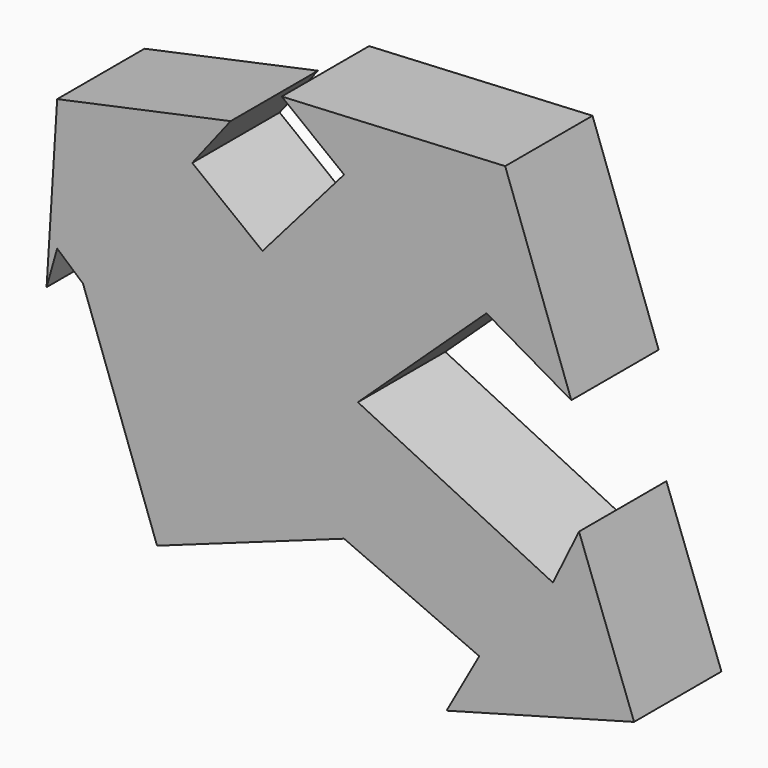
from build123d import *

# Parameters (mm, degrees)
F1_DEPTH = 25.4


with BuildPart() as f1:
    # F0 (on Front) → F1 (new body)
    with BuildSketch(Plane.XZ):
        Polygon((-22.192558, 23.749927), (0, 0), (29.912299, 27.950841), (49.64124, 16.54708), (34.25918, 59.484117), (-17.715111, 56.844085), (-3.21496, 45.55314), align=None)
        Polygon((-51.003944, -8.176205), (-22.192558, 23.749927), (-38.5332, 36.474021), (-29.61387, 47.928478), (-69.954226, 39.32365), (-72.417811, 0), (-69.954226, 8.732829), (-63.947109, 3.504212), align=None)
        Polygon((-24.917955, -24.528613), (0, 0), (-22.192558, 23.749927), (-51.003944, -8.176205), (-63.947109, 3.504212), (-46.721168, -44.579782), (-3.21496, -28.993818), align=None)
        Polygon((45.358468, -22.192556), (0, 0), (-24.917955, -24.528613), (-3.21496, -28.993818), (28.227372, -42.827737), (20.635184, -56.454744), (64.241603, -44.579782), (51.440848, -9.761026), align=None)
    extrude(amount=F1_DEPTH)


solid = f1.part
